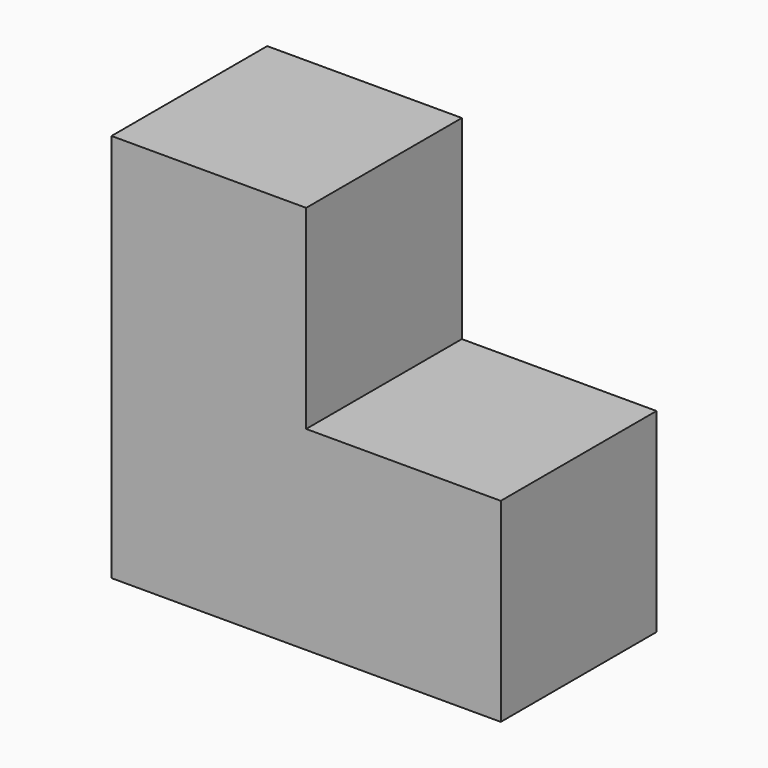
from build123d import *

# Parameters (mm, degrees)
F0_W     = 25.4
F0_H     = 25.4
F1_DEPTH = 25.4


with BuildPart() as f1:
    # F0 (on Front) → F1 (new body)
    with BuildSketch(Plane.XZ):
        with Locations((12.7, 12.7)):
            Rectangle(F0_W, F0_H)
        with Locations((38.1, 12.7)):
            Rectangle(F0_W, F0_H)
        with Locations((12.7, 38.1)):
            Rectangle(F0_W, F0_H)
    extrude(amount=F1_DEPTH)


solid = f1.part
